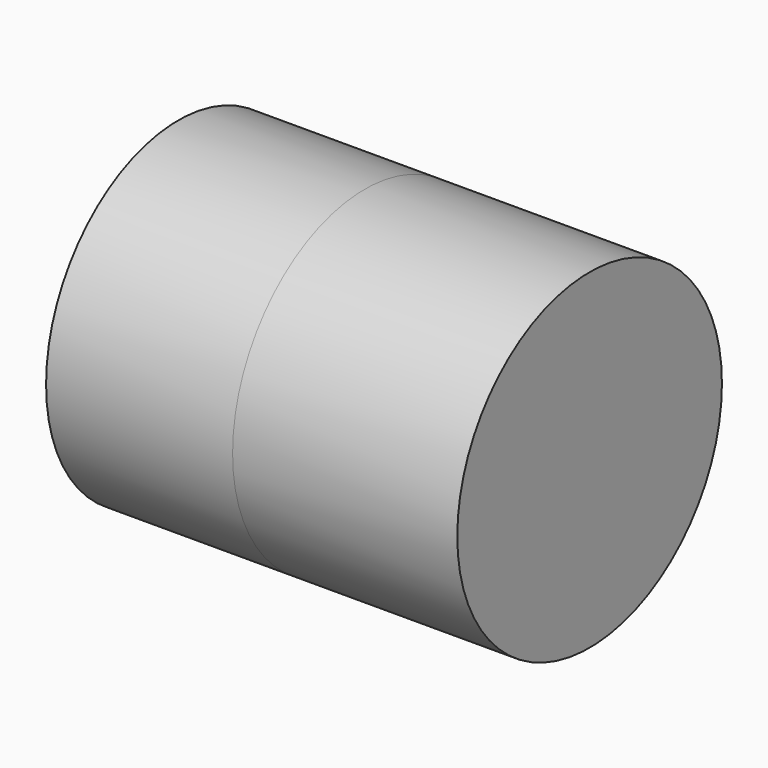
from build123d import *

# Parameters (mm, degrees)
F0_R          = 46.6336864715
F1_DEPTH      = 52.58971
F1_DEPTH_BACK = 63.35635


with BuildPart() as f1:
    # F0 (on Right) → F1 (new body, two sides)
    with BuildSketch(Plane.YZ) as f1_sk:
        Circle(F0_R)
    extrude(amount=-F1_DEPTH)
    extrude(f1_sk.sketch, amount=F1_DEPTH_BACK)


solid = f1.part
